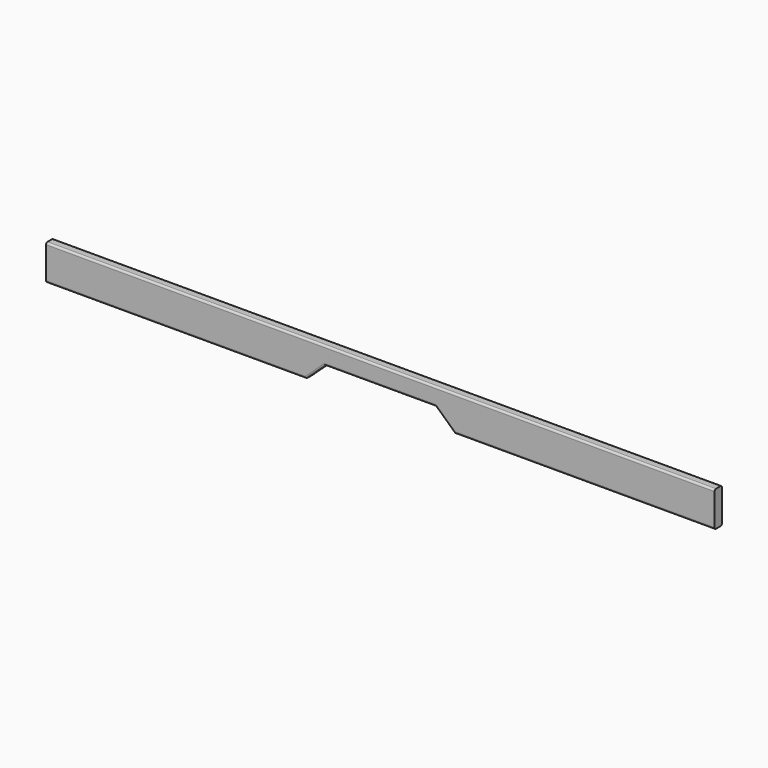
from build123d import *

# Parameters (mm, degrees)
F0_W     = 360
F0_H     = 19
F1_DEPTH = 5
F3_DEPTH = 25
F4_R     = 1


with BuildPart() as f1:
    # F0 (on Front) → F1 (new body)
    with BuildSketch(Plane.XZ):
        Rectangle(F0_W, F0_H)
    extrude(amount=F1_DEPTH)

    # F2 (on face) → F3 (cut)
    with BuildSketch(Plane.XZ.offset(5)):
        Polygon((-29.716518, 0), (-40, -9.5), (40, -9.5), (29.716518, 0), align=None)
    extrude(amount=-F3_DEPTH, mode=Mode.SUBTRACT)

    # F4
    f4_edges = [f1.edges().sort_by_distance(p)[0] for p in [
        (0, -5, 9.5),
        (0, 0, 9.5),
        (110, -5, -9.5),
        (-110, -5, -9.5),
        (0, -5, 0),
        (34.858259, -5, -4.75),
        (-34.858259, -5, -4.75),
        (110, 0, -9.5),
        (-110, 0, -9.5),
        (0, 0, 0),
        (-34.858259, 0, -4.75),
        (34.858259, 0, -4.75),
    ]]
    fillet(f4_edges, radius=F4_R)


solid = f1.part
